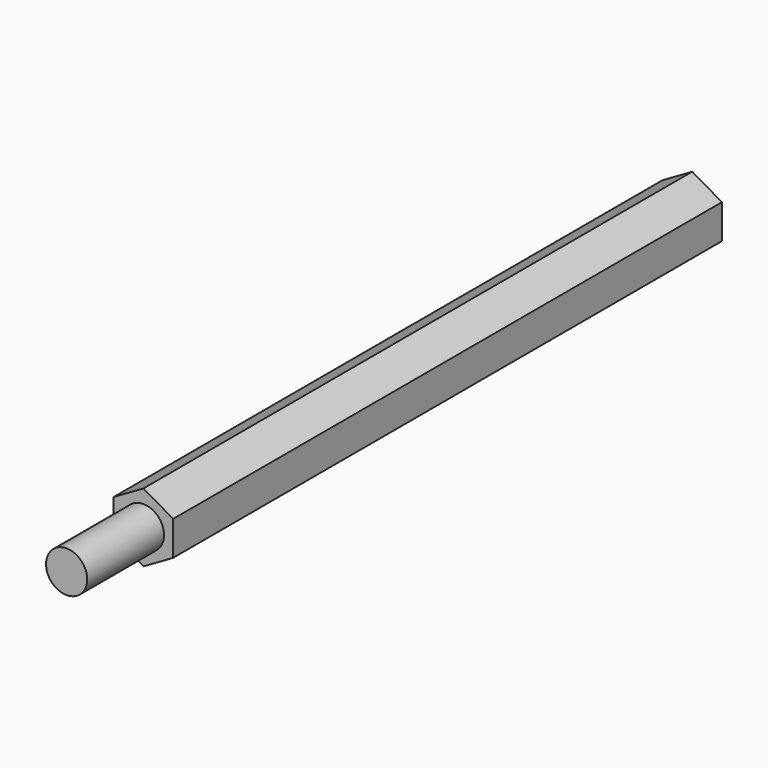
from build123d import *

# Parameters (mm, degrees)
F1_DEPTH = 50
F2_R     = 1.5
F3_DEPTH = 7
F4_R     = 1.5
F5_DEPTH = 7


with BuildPart() as f1:
    # F0 (on Front) → F1 (new body)
    with BuildSketch(Plane.XZ):
        Polygon((-2.165064, 1.25), (0, 0), (0, 2.5), align=None)
        Polygon((2.165064, -1.25), (0, 0), (0, -2.5), align=None)
        Polygon((0, 2.5), (0, 0), (2.165064, 1.25), align=None)
        Polygon((2.165064, 1.25), (0, 0), (2.165064, -1.25), align=None)
        Polygon((0, -2.5), (0, 0), (-2.165064, -1.25), align=None)
        Polygon((-2.165064, -1.25), (0, 0), (-2.165064, 1.25), align=None)
    extrude(amount=F1_DEPTH)

    # F2 (on face) → F3 (join)
    with BuildSketch(Plane.XZ.offset(50)):
        Circle(F2_R)
    extrude(amount=F3_DEPTH)

    # F4 (on face) → F5 (cut)
    with BuildSketch(Plane(origin=(0, 0, 0), x_dir=(-1, 0, 0), z_dir=(0, 1, 0))):
        Circle(F4_R)
    extrude(amount=-F5_DEPTH, mode=Mode.SUBTRACT)


solid = f1.part
